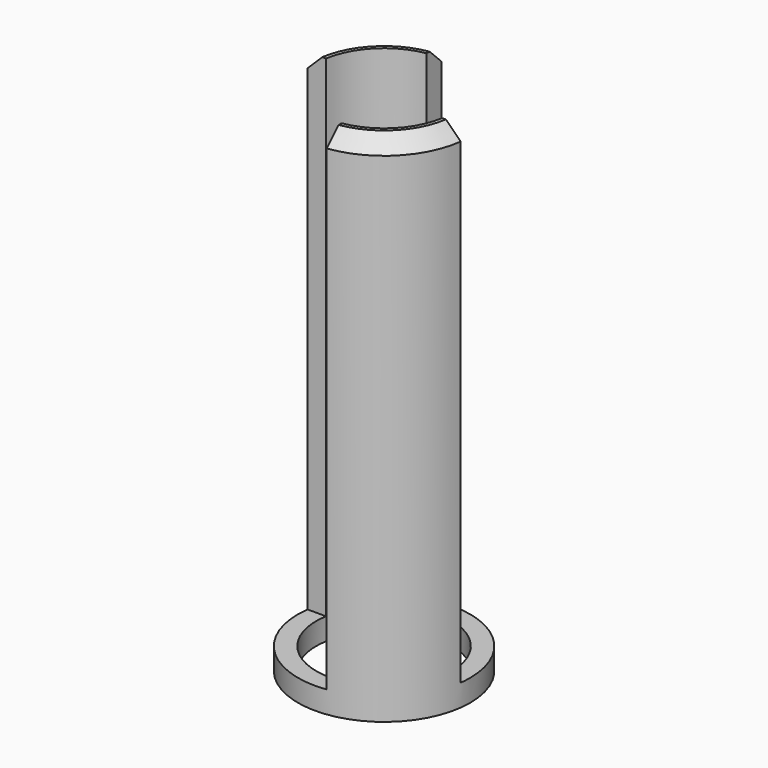
from build123d import *

# Parameters (mm, degrees)
SKETCH023_R             = 11.75
SKETCH023_R_2           = 9.25
PAD015_DEPTH            = 70
SKETCH025_W             = 31.48
SKETCH025_H             = 3
POCKET007_DEPTH         = 67
CHAMFER006_SIZE         = 2
SKETCH024_W             = 13.1538620208
SKETCH024_H             = 12.44
POCKET006_DEPTH         = 67
BODY013_PLACEMENT_ANGLE = 180


with BuildPart() as part:
    # Sketch023 → Pad015 (new body)
    with BuildSketch(Plane.XY):
        Circle(SKETCH023_R)
        Circle(SKETCH023_R_2, mode=Mode.SUBTRACT)
    extrude(amount=PAD015_DEPTH)

    # Sketch025 (on Face3 of Pad015) → Pocket007 (cut)
    with BuildSketch(Plane(origin=(0, 0, 0), x_dir=(1, 0, 0), z_dir=(0, 0, -1))):
        Rectangle(SKETCH025_W, SKETCH025_H)
    extrude(amount=-POCKET007_DEPTH, mode=Mode.SUBTRACT)

    # Chamfer006
    chamfer006_edges = [part.edges().sort_by_distance(p)[0] for p in [
        (0, 11.75, 0),
        (0, -11.75, 0),
    ]]
    chamfer(chamfer006_edges, length=CHAMFER006_SIZE)

    # Sketch024 (on Face11 of Chamfer006) → Pocket006 (cut)
    with BuildSketch(Plane(origin=(0, 0, 0), x_dir=(1, 0, 0), z_dir=(0, 0, -1))):
        with Locations((5.0769310104, 7.72)):
            Rectangle(SKETCH024_W, SKETCH024_H)
        with Locations((-5.0769310104, -7.72)):
            Rectangle(SKETCH024_W, SKETCH024_H)
    extrude(amount=-POCKET006_DEPTH, mode=Mode.SUBTRACT)


with BuildPart() as part_1:
    # Body013 placement: moved
    add(part.part.moved(Location((0, 0, 69))).rotate(Axis((0, 0, 69), (1, 0, 0)), BODY013_PLACEMENT_ANGLE))


solid = part_1.part
